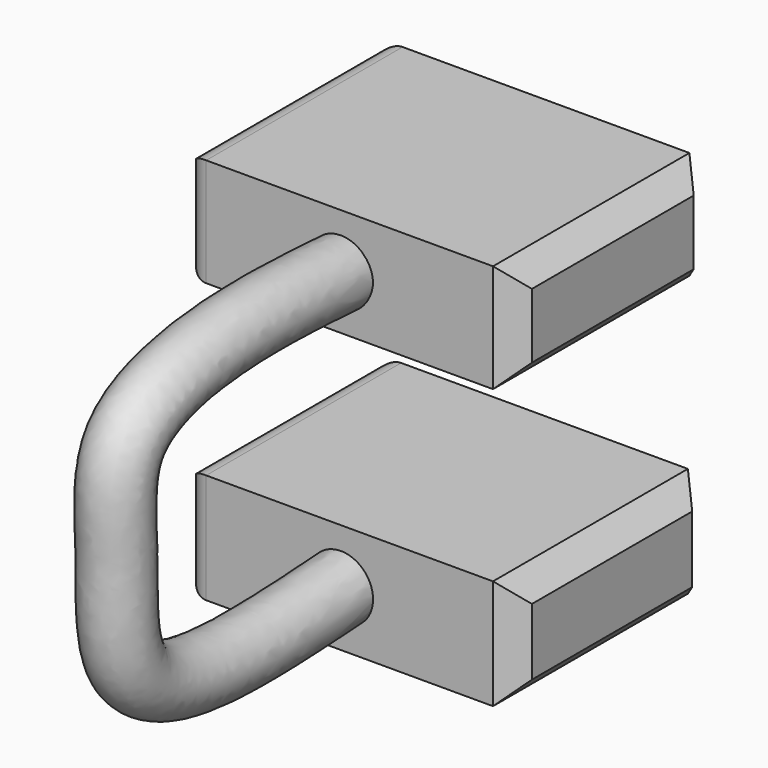
from build123d import *

# Parameters (mm, degrees)
F0_W      = 76.2819349766
F0_H      = 56.3033334911
F1_DEPTH  = 25.4
F5_W      = 76.2861296535
F5_H      = 56.7338764668
F6_DEPTH  = 25
F2_R      = 7.4364907576
F9_SIZE   = 5
F9_2_SIZE = 5
F10_R     = 5
F10_2_R   = 5


with BuildPart() as f1:
    # F0 (on Top) → F1 (new body)
    with BuildSketch(Plane.XY):
        with Locations((38.1409674883, 28.1516667455)):
            Rectangle(F0_W, F0_H)
    extrude(amount=F1_DEPTH)

    # F9
    f9_edges = [f1.edges().sort_by_distance(p)[0] for p in [
        (76.281935, 0, 12.7),
        (76.281935, 56.303333, 12.7),
        (76.281935, 28.151667, 0),
        (76.281935, 28.151667, 25.4),
    ]]
    chamfer(f9_edges, length=F9_SIZE)

    # F10#2
    f10_2_edges = [f1.edges().sort_by_distance(p)[0] for p in [
        (0, 56.303333, 12.7),
        (0, 28.151667, 25.4),
        (0, 28.151667, 0),
        (0, 0, 12.7),
    ]]
    fillet(f10_2_edges, radius=F10_2_R)


with BuildPart() as f6:
    # F5 (on offset) → F6 (new body)
    with BuildSketch(Plane.XY.offset(64.5)):
        with Locations((38.1430648267, 28.3669382334)):
            Rectangle(F5_W, F5_H)
    extrude(amount=F6_DEPTH)

    # F9#2
    f9_2_edges = [f6.edges().sort_by_distance(p)[0] for p in [
        (76.28613, 0, 77),
        (76.28613, 28.366938, 64.5),
        (76.28613, 28.366938, 89.5),
        (76.28613, 56.733876, 77),
    ]]
    chamfer(f9_2_edges, length=F9_2_SIZE)

    # F10
    f10_edges = [f6.edges().sort_by_distance(p)[0] for p in [
        (0, 28.366938, 89.5),
        (0, 0, 77),
        (0, 28.366938, 64.5),
        (0, 56.733876, 77),
    ]]
    fillet(f10_edges, radius=F10_R)


with BuildPart() as f8:
    # F8: sweep along a path in F7
    with BuildLine(Plane.YZ.offset(36.1)) as f8_path:
        add(Plane.YZ.offset(36.1) * Edge.make_bspline(
            [(0, 12.7756176516), (-17.2697575306, 11.7372232342), (-45.5167533298, 10.0387904279), (-65.7940215498, 21.7233568099), (-64.0425767682, 47.1450165386), (-67.0013923917, 71.3227707408), (-36.0403337757, 79.0190550942), (-12.7302498079, 77.6276400959), (0, 76.8677517772)],
            knots=[0, 0, 0, 0, 0.2141455006, 0.3502635775, 0.5034552398, 0.6465054075, 0.8069473077, 1, 1, 1, 1], degree=3))
    # F2 (on face) → F8 (sweep)
    with BuildSketch(Plane.XZ):
        with Locations((36.1335463822, 12.7136567608)):
            Circle(F2_R)
    sweep(path=f8_path.line)


solid = Compound([f1.part, f6.part, f8.part])
